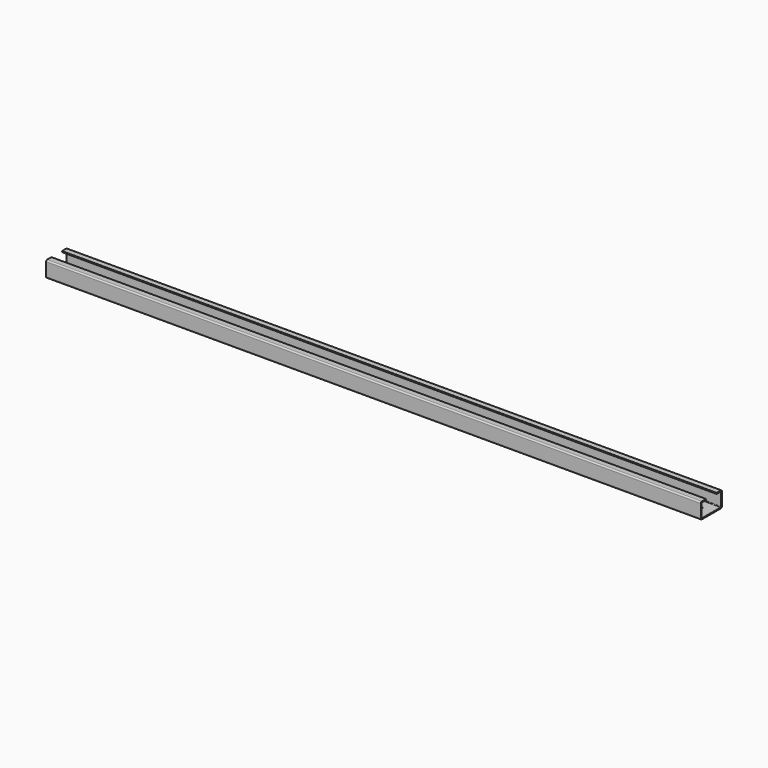
from build123d import *

# Parameters (mm, degrees)
F1_DEPTH = 990
F3_D     = 11


with BuildPart() as f1:
    # F0 (on Right) → F1 (new body)
    with BuildSketch(Plane.YZ):
        with BuildLine():
            ThreePointArc((-61.930072, 7.938889), (-61.344286, 6.524675), (-59.930072, 5.938889))
            Line((-59.930072, 5.938889), (-23.930072, 5.938889))
            ThreePointArc((-23.930072, 5.938889), (-22.515859, 6.524675), (-21.930072, 7.938889))
            Line((-21.930072, 7.938889), (-21.930072, 27.938889))
            ThreePointArc((-21.930072, 27.938889), (-22.515859, 29.353103), (-23.930072, 29.938889))
            Line((-23.930072, 29.938889), (-31.930072, 29.938889))
            Line((-31.930072, 29.938889), (-31.930072, 28.438889))
            Line((-31.930072, 28.438889), (-24.430072, 28.438889))
            ThreePointArc((-24.430072, 28.438889), (-23.722966, 28.145996), (-23.430072, 27.438889))
            Line((-23.430072, 27.438889), (-23.430072, 8.438889))
            ThreePointArc((-23.430072, 8.438889), (-23.722966, 7.731782), (-24.430072, 7.438889))
            Line((-24.430072, 7.438889), (-59.430072, 7.438889))
            ThreePointArc((-59.430072, 7.438889), (-60.137179, 7.731782), (-60.430072, 8.438889))
            Line((-60.430072, 8.438889), (-60.430072, 27.438889))
            ThreePointArc((-60.430072, 27.438889), (-60.137179, 28.145996), (-59.430072, 28.438889))
            Line((-59.430072, 28.438889), (-51.930072, 28.438889))
            Line((-51.930072, 28.438889), (-51.930072, 29.938889))
            Line((-51.930072, 29.938889), (-59.930072, 29.938889))
            ThreePointArc((-59.930072, 29.938889), (-61.344286, 29.353103), (-61.930072, 27.938889))
            Line((-61.930072, 27.938889), (-61.930072, 7.938889))
        make_face()
    extrude(amount=F1_DEPTH)

    # F3 (through all)
    with Locations(Plane(origin=(0, 0, 5.938889), x_dir=(1, 0, 0), z_dir=(0, 0, -1))):
        with Locations((969.762, 41.930072), (20.238, 41.930072)):
            Hole(F3_D / 2)


solid = f1.part
